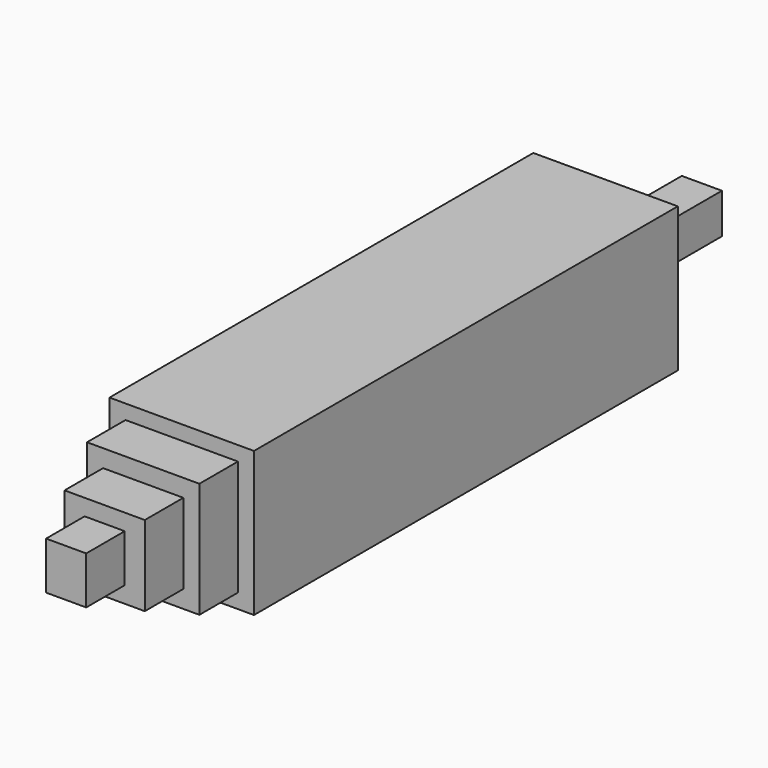
from build123d import *

# Parameters (mm, degrees)
F0_W     = 22.86
F0_H     = 83.82
F1_DEPTH = 22.86
F3_DEPTH = 19.05
F5_DEPTH = 7.62
F6_W     = 6.35
F6_H     = 6.35
F7_DEPTH = 7.62
F9_DEPTH = 7.62


with BuildPart() as f1:
    # F0 (on Top) → F1 (new body)
    with BuildSketch(Plane.XY):
        with Locations((11.43, 41.91)):
            Rectangle(F0_W, F0_H)
    extrude(amount=F1_DEPTH)

    # F2 (on face) → F3 (join)
    with BuildSketch(Plane(origin=(0, 83.82, 0), x_dir=(-1, 0, 0), z_dir=(0, 1, 0))):
        Polygon((-8.255, 8.255), (-8.255, 14.605), (-14.605, 14.605), (-14.605, 11.43), (-14.605, 8.255), align=None)
    extrude(amount=F3_DEPTH)

    # F4 (on face) → F5 (join)
    with BuildSketch(Plane.XZ):
        Polygon((20.32, 20.559318), (2.54, 20.559318), (2.54, 11.43), (2.54, 2.300682), (20.32, 2.300682), align=None)
    extrude(amount=F5_DEPTH)

    # F6 (on face) → F7 (join)
    with BuildSketch(Plane.XZ.offset(7.62)):
        with Locations((8.255, 14.605)):
            Rectangle(F6_W, F6_H)
        Polygon((11.43, 11.43), (5.08, 11.43), (5.08, 5.08), (17.78, 5.08), (17.78, 17.78), (11.43, 17.78), align=None)
    extrude(amount=F7_DEPTH)

    # F8 (on face) → F9 (join)
    with BuildSketch(Plane.XZ.offset(15.24)):
        Polygon((14.605, 15.194485), (8.255, 15.194485), (8.255, 11.43), (8.255, 7.665515), (14.605, 7.665515), align=None)
    extrude(amount=F9_DEPTH)


solid = f1.part
